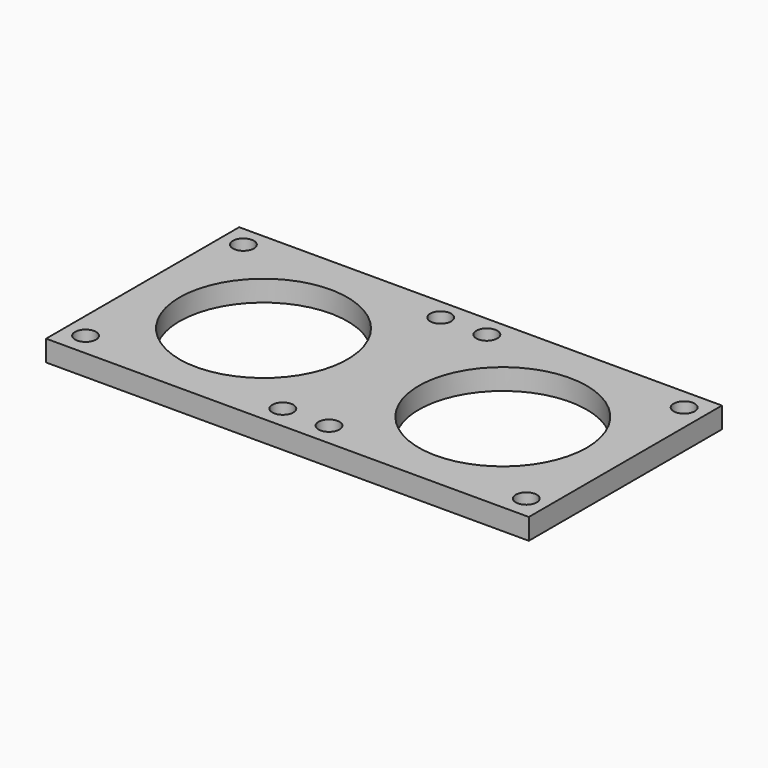
from build123d import *

# Parameters (mm, degrees)
F0_W     = 57.5
F0_H     = 57.5
F0_R     = 2.5
F1_DEPTH = 5
F2_R     = 20
F3_DEPTH = 5


with BuildPart() as f1:
    # F0 (on Top) → F1 (new body)
    with BuildSketch(Plane.XY):
        with Locations((2.407941, 10.496731)):
            Rectangle(F0_W, F0_H)
        with Locations((-20.842059, -12.753269)):
            Circle(F0_R, mode=Mode.SUBTRACT)
        with Locations((26.157941, -12.753269)):
            Circle(F0_R, mode=Mode.SUBTRACT)
        with Locations((-20.842059, 34.246731)):
            Circle(F0_R, mode=Mode.SUBTRACT)
        with Locations((26.157941, 34.246731)):
            Circle(F0_R, mode=Mode.SUBTRACT)
    extrude(amount=F1_DEPTH)

    # F2 (on face) → F3 (cut)
    with BuildSketch(Plane.XY.offset(5)):
        with Locations((2.157941, 10.246731)):
            Circle(F2_R)
    extrude(amount=-F3_DEPTH, mode=Mode.SUBTRACT)

    # F4: F1 across face


with BuildPart() as f1_1:
    add(f1.part)
    add(f1.part.mirror(Plane(origin=(-26.342059, 10.496731, 2.5), x_dir=(0, -1, 0), z_dir=(-1, 0, 0))))


solid = f1_1.part
